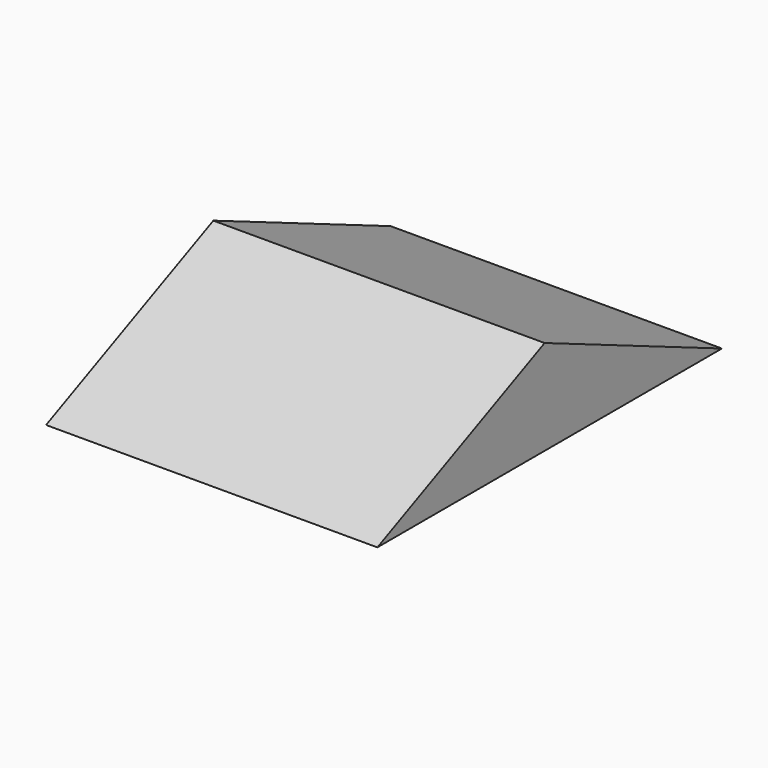
from build123d import *

# Parameters (mm, degrees)
F1_DEPTH = 6096


with BuildPart() as f1:
    # F0 (on Right) → F1 (new body)
    with BuildSketch(Plane.YZ):
        Polygon((0, 2427.633594), (-3846.568543, 680.509611), (4078.231457, 680.509611), align=None)
    extrude(amount=-F1_DEPTH)


solid = f1.part
